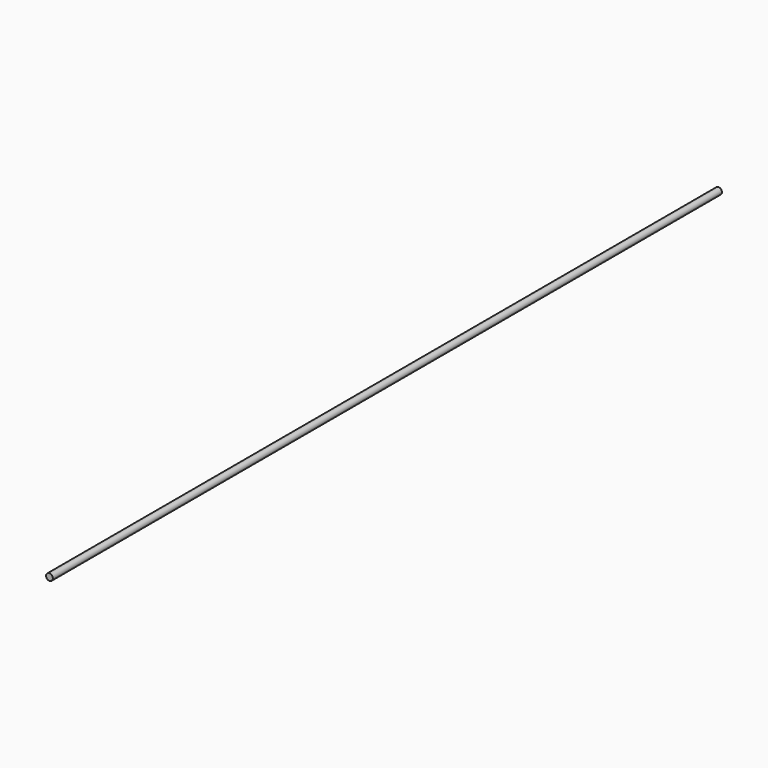
from build123d import *

# Parameters (mm, degrees)
SKETCH_R  = 0.25
PAD_DEPTH = 62


with BuildPart() as part:
    # Sketch → Pad (new body)
    with BuildSketch(Plane.XZ):
        Circle(SKETCH_R)
    extrude(amount=PAD_DEPTH)


solid = part.part
